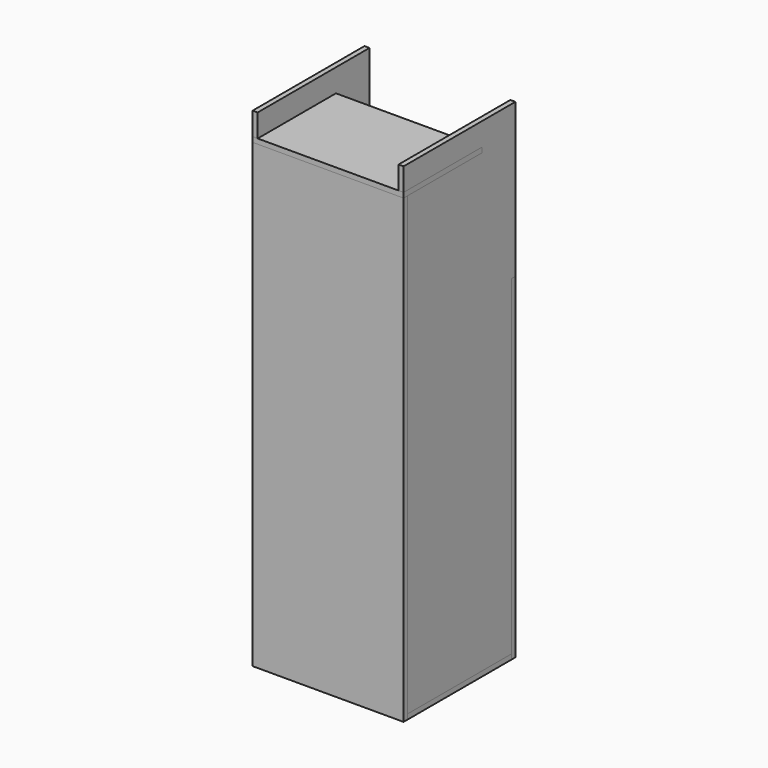
from build123d import *

# Parameters (mm, degrees)
BOX_W        = 18
BOX_H        = 500
BOX_DEPTH    = 1750
BOX001_W     = 18
BOX001_H     = 500
BOX001_DEPTH = 1750
BOX002_W     = 540
BOX002_H     = 500
BOX002_DEPTH = 18
BOX003_W     = 540
BOX003_H     = 18
BOX003_DEPTH = 1650
BOX004_W     = 540
BOX004_H     = 18
BOX004_DEPTH = 1200
BOX005_W     = 504
BOX005_H     = 300
BOX005_DEPTH = 18
BOX006_W     = 464
BOX006_H     = 440
BOX006_DEPTH = 18
BOX007_W     = 464
BOX007_H     = 200
BOX007_DEPTH = 18
BOX008_W     = 540
BOX008_H     = 350
BOX008_DEPTH = 18


with BuildPart() as box:
    # Box → Box (new body)
    with BuildSketch(Plane.XY):
        with Locations((9, 250)):
            Rectangle(BOX_W, BOX_H)
    extrude(amount=BOX_DEPTH)


with BuildPart() as box001:
    # Box001 → Box001 (new body)
    with BuildSketch(Plane(origin=(522, 0, 0), x_dir=(1, 0, 0), z_dir=(0, 0, 1))):
        with Locations((9, 250)):
            Rectangle(BOX001_W, BOX001_H)
    extrude(amount=BOX001_DEPTH)


with BuildPart() as box002:
    # Box002 → Box002 (new body)
    with BuildSketch(Plane.XY):
        with Locations((270, 250)):
            Rectangle(BOX002_W, BOX002_H)
    extrude(amount=BOX002_DEPTH)


with BuildPart() as box003:
    # Box003 → Box003 (new body)
    with BuildSketch(Plane.XY):
        with Locations((270, 9)):
            Rectangle(BOX003_W, BOX003_H)
    extrude(amount=BOX003_DEPTH)


with BuildPart() as box004:
    # Box004 → Box004 (new body)
    with BuildSketch(Plane(origin=(0, 482, 0), x_dir=(1, 0, 0), z_dir=(0, 0, 1))):
        with Locations((270, 9)):
            Rectangle(BOX004_W, BOX004_H)
    extrude(amount=BOX004_DEPTH)


with BuildPart() as box005:
    # Box005 → Box005 (new body)
    with BuildSketch(Plane(origin=(18, 200, 400), x_dir=(1, 0, 0), z_dir=(0, 0, 1))):
        with Locations((252, 150)):
            Rectangle(BOX005_W, BOX005_H)
    extrude(amount=BOX005_DEPTH)


with BuildPart() as box006:
    # Box006 → Box006 (new body)
    with BuildSketch(Plane(origin=(38, 30, 150), x_dir=(1, 0, 0), z_dir=(0, 0, 1))):
        with Locations((232, 220)):
            Rectangle(BOX006_W, BOX006_H)
    extrude(amount=BOX006_DEPTH)


with BuildPart() as box007:
    # Box007 → Box007 (new body)
    with BuildSketch(Plane(origin=(38, 30, 550), x_dir=(1, 0, 0), z_dir=(0, 0, 1))):
        with Locations((232, 100)):
            Rectangle(BOX007_W, BOX007_H)
    extrude(amount=BOX007_DEPTH)


with BuildPart() as box008:
    # Box008 → Box008 (new body)
    with BuildSketch(Plane.XY.offset(1650)):
        with Locations((270, 175)):
            Rectangle(BOX008_W, BOX008_H)
    extrude(amount=BOX008_DEPTH)


solid = Compound([box.part, box001.part, box002.part, box003.part, box004.part, box005.part, box006.part, box007.part, box008.part])
